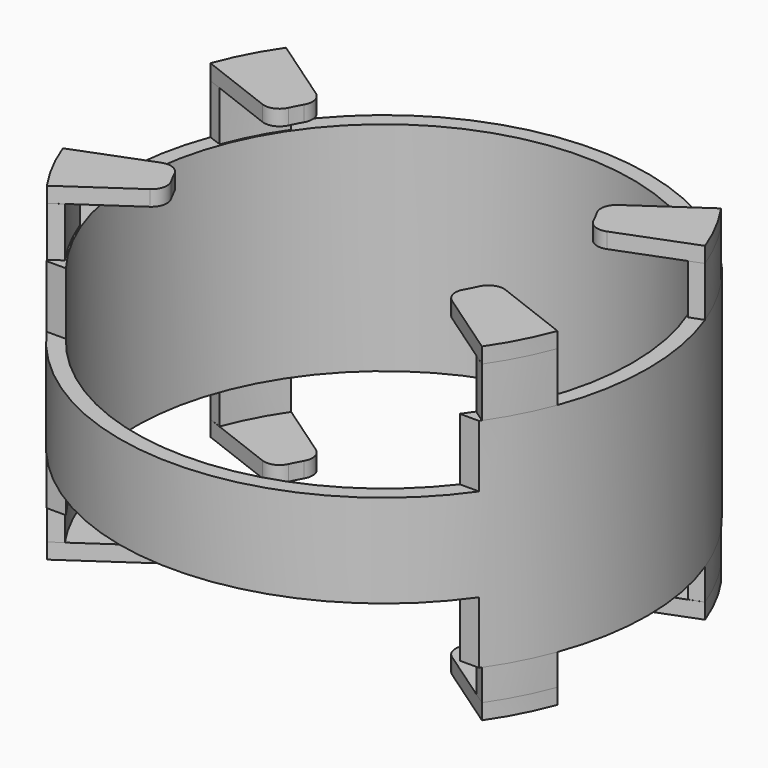
from build123d import *

# Parameters (mm, degrees)
SKETCH007_R                    = 8.5
PAD006_DEPTH                   = 7
THICKNESS_T                    = -0.5
PAD007_DEPTH                   = 1.6
PAD007_POLARPATTERN_2_DEPTH    = 1.6
PAD008_DEPTH                   = 0.5
PAD008_POLARPATTERN001_2_DEPTH = 0.5
SKETCH011_W                    = 13.925584
SKETCH011_H                    = 6.6246
POCKET001_DEPTH                = 2
SKETCH013_W                    = 13.925584
SKETCH013_H                    = 6.6246
POCKET002_DEPTH                = 2
SKETCH014_R                    = 8
POCKET003_DEPTH                = 0.5
PAD009_DEPTH                   = 1
PAD009_MIRRORED002_2_DEPTH     = 1
PAD010_DEPTH                   = 0.5
PAD010_MIRRORED004_2_DEPTH     = 0.5
FILLET_R                       = 0.5


with BuildPart() as part:
    # Sketch007 (on DatumPlane) → Pad006 (new body)
    with BuildSketch(Plane(origin=(0, 0, -1), x_dir=(1, 0, 0), z_dir=(0, 0, -1))):
        Circle(SKETCH007_R)
    extrude(amount=PAD006_DEPTH)

    # Thickness
    thickness_openings = [part.faces().sort_by_distance(p)[0] for p in [
        (0, 0, -1),
    ]]
    offset(amount=THICKNESS_T, openings=thickness_openings)

    # Sketch008 (on Face3 of Thickness) → Pad007 (join)
    with BuildSketch(Plane.XY.offset(-1)):
        with BuildLine():
            ThreePointArc((-7.005526, 4.813794), (-7.541696, 3.920819), (-7.964623, 2.96897))
            Line((-7.540357, 2.810816), (-7.964623, 2.96897))
            ThreePointArc((-6.632349, 4.557368), (-7.139959, 3.711961), (-7.540357, 2.810816))
            Line((-6.632349, 4.557368), (-7.005526, 4.813794))
        make_face()
    pad007 = extrude(amount=PAD007_DEPTH)

    # Sketch008 PolarPattern 2 → Pad007 PolarPattern 2 (add)
    with BuildSketch(Plane(origin=(0, 0, -1), x_dir=(-1, 0, 0), z_dir=(0, 0, 1))):
        with BuildLine():
            ThreePointArc((-7.005526, 4.813794), (-7.541696, 3.920819), (-7.964623, 2.96897))
            Line((-7.540357, 2.810816), (-7.964623, 2.96897))
            ThreePointArc((-6.632349, 4.557368), (-7.139959, 3.711961), (-7.540357, 2.810816))
            Line((-6.632349, 4.557368), (-7.005526, 4.813794))
        make_face()
    pad007_polarpattern_2 = extrude(amount=PAD007_POLARPATTERN_2_DEPTH)

    # Mirrored: Pad007, Pad007 PolarPattern 2 across Sketch008 V_Axis
    add(pad007.mirror(Plane(origin=(0, 0, -1), x_dir=(0, 0, 1), z_dir=(1, 0, 0))))
    add(pad007_polarpattern_2.mirror(Plane(origin=(0, 0, -1), x_dir=(0, 0, 1), z_dir=(1, 0, 0))))

    # Sketch009 (on Face23 of MultiTransform) → Pad008 (join)
    with BuildSketch(Plane.XY.offset(0.6)):
        with BuildLine():
            ThreePointArc((-7.005526, 4.813794), (-7.542066, 3.921011), (-7.964623, 2.96897))
            Line((-5.09111, 1.862853), (-7.964623, 2.96897))
            ThreePointArc((-4.469489, 3.068188), (-4.818529, 2.485236), (-5.09111, 1.862853))
            Line((-7.005526, 4.813794), (-4.469489, 3.068188))
        make_face()
    pad008 = extrude(amount=PAD008_DEPTH)

    # Sketch009 PolarPattern001 2 → Pad008 PolarPattern001 2 (add)
    with BuildSketch(Plane(origin=(0, 0, 0.6), x_dir=(-1, 0, 0), z_dir=(0, 0, 1))):
        with BuildLine():
            ThreePointArc((-7.005526, 4.813794), (-7.542066, 3.921011), (-7.964623, 2.96897))
            Line((-5.09111, 1.862853), (-7.964623, 2.96897))
            ThreePointArc((-4.469489, 3.068188), (-4.818529, 2.485236), (-5.09111, 1.862853))
            Line((-7.005526, 4.813794), (-4.469489, 3.068188))
        make_face()
    pad008_polarpattern001_2 = extrude(amount=PAD008_POLARPATTERN001_2_DEPTH)

    # Mirrored001: Pad008, Pad008 PolarPattern001 2 across Sketch009 V_Axis
    add(pad008.mirror(Plane(origin=(0, 0, 0.6), x_dir=(0, 0, 1), z_dir=(1, 0, 0))))
    add(pad008_polarpattern001_2.mirror(Plane(origin=(0, 0, 0.6), x_dir=(0, 0, 1), z_dir=(1, 0, 0))))

    # Sketch011 (on Face1 of ShapeBinder001) → Pocket001 (cut)
    with BuildSketch(Plane(origin=(0, 0, -1), x_dir=(1, 0, 0), z_dir=(0, 0, -1))):
        with Locations((0, 8.1877)):
            Rectangle(SKETCH011_W, SKETCH011_H)
    extrude(amount=POCKET001_DEPTH, mode=Mode.SUBTRACT)

    # Sketch013 → Pocket002 (cut)
    with BuildSketch(Plane.XY.offset(-8)):
        with Locations((0, -8.1877)):
            Rectangle(SKETCH013_W, SKETCH013_H)
    extrude(amount=POCKET002_DEPTH, mode=Mode.SUBTRACT)

    # Sketch014 → Pocket003 (cut)
    with BuildSketch(Plane.XY.offset(-8)):
        Circle(SKETCH014_R)
    extrude(amount=POCKET003_DEPTH, mode=Mode.SUBTRACT)

    # Sketch012 → Pad009 (join)
    with BuildSketch(Plane.XY.offset(-8)):
        with BuildLine():
            ThreePointArc((-7.005526, 4.813794), (-7.541696, 3.920819), (-7.964623, 2.96897))
            Line((-7.540357, 2.810816), (-7.964623, 2.96897))
            ThreePointArc((-6.632349, 4.557368), (-7.139959, 3.711961), (-7.540357, 2.810816))
            Line((-6.632349, 4.557368), (-7.005526, 4.813794))
        make_face()
    pad009 = extrude(amount=-PAD009_DEPTH)

    # Sketch012 Mirrored002 2 → Pad009 Mirrored002 2 (add)
    with BuildSketch(Plane(origin=(0, 0, -8), x_dir=(-1, 0, 0), z_dir=(0, 0, -1))):
        with BuildLine():
            ThreePointArc((-7.005526, 4.813794), (-7.541696, 3.920819), (-7.964623, 2.96897))
            Line((-7.540357, 2.810816), (-7.964623, 2.96897))
            ThreePointArc((-6.632349, 4.557368), (-7.139959, 3.711961), (-7.540357, 2.810816))
            Line((-6.632349, 4.557368), (-7.005526, 4.813794))
        make_face()
    pad009_mirrored002_2 = extrude(amount=PAD009_MIRRORED002_2_DEPTH)

    # Mirrored003: Pad009, Pad009 Mirrored002 2 across Sketch012 H_Axis
    add(pad009.mirror(Plane(origin=(0, 0, -8), x_dir=(0, 0, 1), z_dir=(0, 1, 0))))
    add(pad009_mirrored002_2.mirror(Plane(origin=(0, 0, -8), x_dir=(0, 0, 1), z_dir=(0, 1, 0))))

    # Sketch015 → Pad010 (join)
    with BuildSketch(Plane.XY.offset(-9.5)):
        with BuildLine():
            ThreePointArc((-7.005526, 4.813794), (-7.542066, 3.921011), (-7.964623, 2.96897))
            Line((-5.09111, 1.862853), (-7.964623, 2.96897))
            ThreePointArc((-4.469489, 3.068188), (-4.818529, 2.485236), (-5.09111, 1.862853))
            Line((-7.005526, 4.813794), (-4.469489, 3.068188))
        make_face()
    pad010 = extrude(amount=PAD010_DEPTH)

    # Sketch015 Mirrored004 2 → Pad010 Mirrored004 2 (add)
    with BuildSketch(Plane(origin=(0, 0, -9.5), x_dir=(-1, 0, 0), z_dir=(0, 0, -1))):
        with BuildLine():
            ThreePointArc((-7.005526, 4.813794), (-7.542066, 3.921011), (-7.964623, 2.96897))
            Line((-5.09111, 1.862853), (-7.964623, 2.96897))
            ThreePointArc((-4.469489, 3.068188), (-4.818529, 2.485236), (-5.09111, 1.862853))
            Line((-7.005526, 4.813794), (-4.469489, 3.068188))
        make_face()
    pad010_mirrored004_2 = extrude(amount=-PAD010_MIRRORED004_2_DEPTH)

    # Mirrored005: Pad010, Pad010 Mirrored004 2 across Sketch015 H_Axis
    add(pad010.mirror(Plane(origin=(0, 0, -9.5), x_dir=(0, 0, 1), z_dir=(0, 1, 0))))
    add(pad010_mirrored004_2.mirror(Plane(origin=(0, 0, -9.5), x_dir=(0, 0, 1), z_dir=(0, 1, 0))))

    # Fillet
    fillet_edges = [part.edges().sort_by_distance(p)[0] for p in [
        (-4.469489, 3.068188, 0.85),
        (-5.09111, 1.862853, 0.85),
        (-5.09111, -1.862853, 0.85),
        (-4.469489, -3.068188, 0.85),
        (4.469489, 3.068188, 0.85),
        (5.09111, 1.862853, 0.85),
        (5.09111, -1.862853, 0.85),
        (4.469489, -3.068188, 0.85),
        (-4.469489, 3.068188, -9.25),
        (-5.09111, 1.862853, -9.25),
        (4.469489, 3.068188, -9.25),
        (5.09111, 1.862853, -9.25),
        (-5.09111, -1.862853, -9.25),
        (-4.469489, -3.068188, -9.25),
        (5.09111, -1.862853, -9.25),
        (4.469489, -3.068188, -9.25),
    ]]
    fillet(fillet_edges, radius=FILLET_R)


solid = part.part
